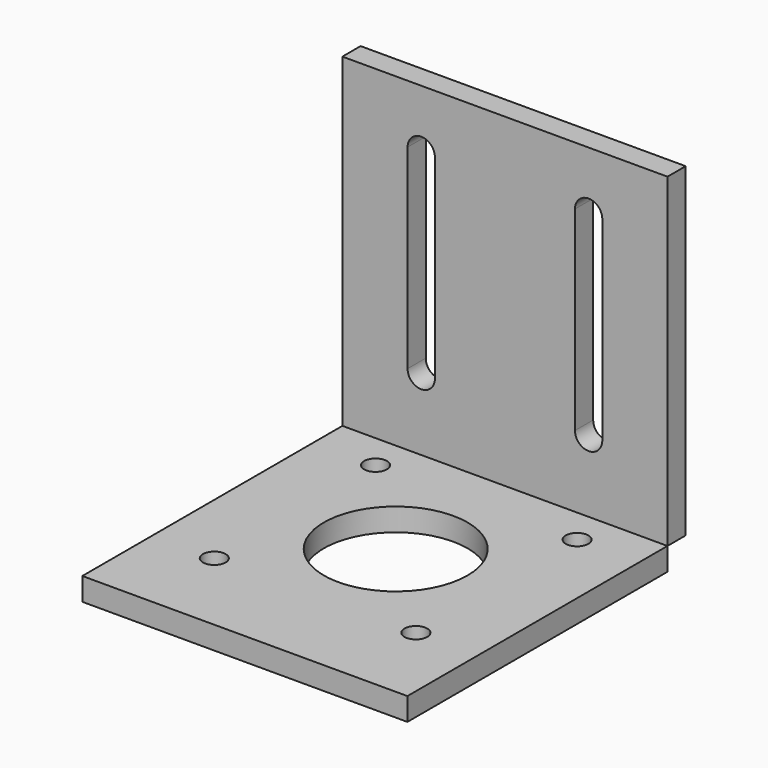
from build123d import *

# Parameters (mm, degrees)
SKETCH003_W      = 50
SKETCH003_H      = 50
EXTRUDE003_DEPTH = 3.5
SKETCH002_W      = 50
SKETCH002_H      = 50
SKETCH002_R      = 11.05
SKETCH002_R_2    = 1.75
EXTRUDE002_DEPTH = 3.5


with BuildPart() as mountplate:
    # Sketch003 → Extrude003 (new body)
    with BuildSketch(Plane(origin=(0, 28.5, 28.5), x_dir=(1, 0, 0), z_dir=(0, -1, 0))):
        Rectangle(SKETCH003_W, SKETCH003_H)
        with BuildLine():
            ThreePointArc((-10.775, 16.00001), (-12.875, 18.10001), (-14.975, 16.00001))
            Line((-14.975, 16.00001), (-14.975, -13.99999))
            ThreePointArc((-14.975, -13.99999), (-12.875, -16.09999), (-10.775, -13.99999))
            Line((-10.775, 16.00001), (-10.775, -13.99999))
        make_face(mode=Mode.SUBTRACT)
        with BuildLine():
            ThreePointArc((14.975, 16.00001), (12.875, 18.100017), (10.775, 16.00001))
            Line((10.775, 16.00001), (10.775, -13.99999))
            ThreePointArc((10.775, -13.99999), (12.875, -16.1), (14.975, -13.99999))
            Line((14.975, 16.00001), (14.975, -13.99999))
        make_face(mode=Mode.SUBTRACT)
    extrude(amount=EXTRUDE003_DEPTH)


with BuildPart() as nema17rightangle:
    # Sketch002 → Extrude002 (new body)
    with BuildSketch(Plane.XY):
        Rectangle(SKETCH002_W, SKETCH002_H)
        with Locations((0, 4)):
            Circle(SKETCH002_R, mode=Mode.SUBTRACT)
        with Locations((-15.5, 19.5)):
            Circle(SKETCH002_R_2, mode=Mode.SUBTRACT)
        with Locations((-15.5, -11.5)):
            Circle(SKETCH002_R_2, mode=Mode.SUBTRACT)
        with Locations((15.5, 19.5)):
            Circle(SKETCH002_R_2, mode=Mode.SUBTRACT)
        with Locations((15.5, -11.5)):
            Circle(SKETCH002_R_2, mode=Mode.SUBTRACT)
    extrude(amount=EXTRUDE002_DEPTH)

    # Fusion: union MountPlate
    add(mountplate.part)


with BuildPart() as nema17rightangle_1:
    # Fusion placement: moved
    add(nema17rightangle.part.moved(Location((-9.85, -38.48, 0))))


solid = nema17rightangle_1.part
